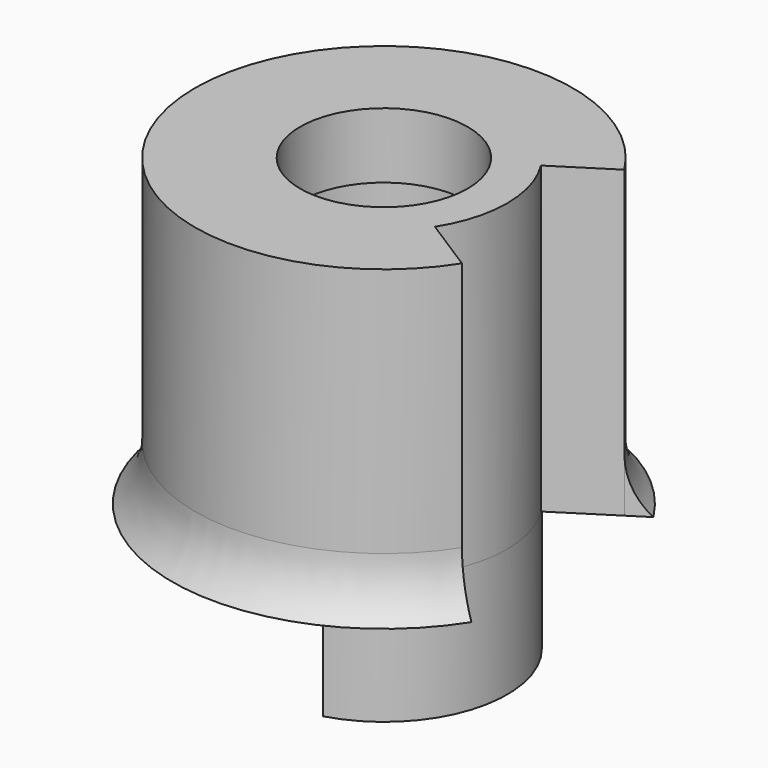
from build123d import *

# Parameters (mm, degrees)
SKETCH050_R      = 12.4
PAD022_DEPTH     = 20
PAD027_DEPTH     = 8.4
POCKET009_DEPTH  = 12.2
SKETCH057_R      = 6.05
POCKET010_DEPTH  = 3.5
SKETCH058_R      = 5.5
POCKET011_DEPTH  = 4.301
POCKET012_DEPTH  = 28.401
REVOLUTION_ANGLE = 295


with BuildPart() as part:
    # Sketch050 → Pad022 (new body)
    with BuildSketch(Plane.XY.offset(8.4)):
        Circle(SKETCH050_R)
    extrude(amount=PAD022_DEPTH)

    # Sketch049 → Pad027 (join)
    with BuildSketch(Plane.XY):
        with BuildLine():
            ThreePointArc((2.232663, -7.78622), (8.1, 0), (2.232663, 7.78622))
            Line((1.791643, 6.248201), (2.232663, 7.78622))
            ThreePointArc((1.791643, -6.248201), (6.5, 0), (1.791643, 6.248201))
            Line((1.791643, -6.248201), (2.232663, -7.78622))
        make_face()
    extrude(amount=PAD027_DEPTH)

    # Sketch056 → Pocket009 (cut)
    with BuildSketch(Plane(origin=(0, 0, 8.4), x_dir=(1, 0, 0), z_dir=(0, 0, -1))):
        with BuildLine():
            ThreePointArc((2.480736, 8.651355), (-9, 0), (2.480736, -8.651355))
            Line((1.791643, -6.248201), (2.480736, -8.651355))
            ThreePointArc((1.791643, -6.248201), (6.5, 0), (1.791643, 6.248201))
            Line((1.791643, 6.248201), (2.480736, 8.651355))
        make_face()
    extrude(amount=-POCKET009_DEPTH, mode=Mode.SUBTRACT)

    # Sketch057 (on Face10 of Pocket009) → Pocket010 (cut)
    with BuildSketch(Plane(origin=(0, 0, 20.6), x_dir=(1, 0, 0), z_dir=(0, 0, -1))):
        Circle(SKETCH057_R)
    extrude(amount=-POCKET010_DEPTH, mode=Mode.SUBTRACT)

    # Sketch058 → Pocket011 (cut, through all)
    with BuildSketch(Plane(origin=(0, 0, 24.1), x_dir=(1, 0, 0), z_dir=(0, 0, -1))):
        Circle(SKETCH058_R)
    extrude(amount=-POCKET011_DEPTH, mode=Mode.SUBTRACT)

    # Sketch055 (on Face3 of Pocket011) → Pocket012 (cut, through all)
    with BuildSketch(Plane.XY.offset(28.4)):
        with BuildLine():
            ThreePointArc((10.458054, -6.662515), (12.4, 0), (10.458054, 6.662515))
            Line((6.831471, 4.352127), (10.458054, 6.662515))
            ThreePointArc((6.831471, -4.352127), (8.1, 0), (6.831471, 4.352127))
            Line((6.831471, -4.352127), (10.458054, -6.662515))
        make_face()
    extrude(amount=-POCKET012_DEPTH, mode=Mode.SUBTRACT)

    # Sketch059 (on Face5 of Pocket012) → Revolution (revolve)
    with BuildSketch(Plane(origin=(0, 0, 8.4), x_dir=(0.843391, 0.5373, 0), z_dir=(0.5373, -0.843391, 0))):
        with BuildLine():
            Line((12.4, 0), (13.9, 0))
            ThreePointArc((12.4, 3.570696), (12.790231, 1.634214), (13.9, 0))
            Line((12.4, 3.570696), (12.4, 0))
        make_face()
    revolve(axis=Axis((0, 0, 8.4), (0, 0, 1)), revolution_arc=REVOLUTION_ANGLE)


with BuildPart() as part_1:
    # Body006 placement: moved
    add(part.part.moved(Location((0, 0, 2.4))))


solid = part_1.part
